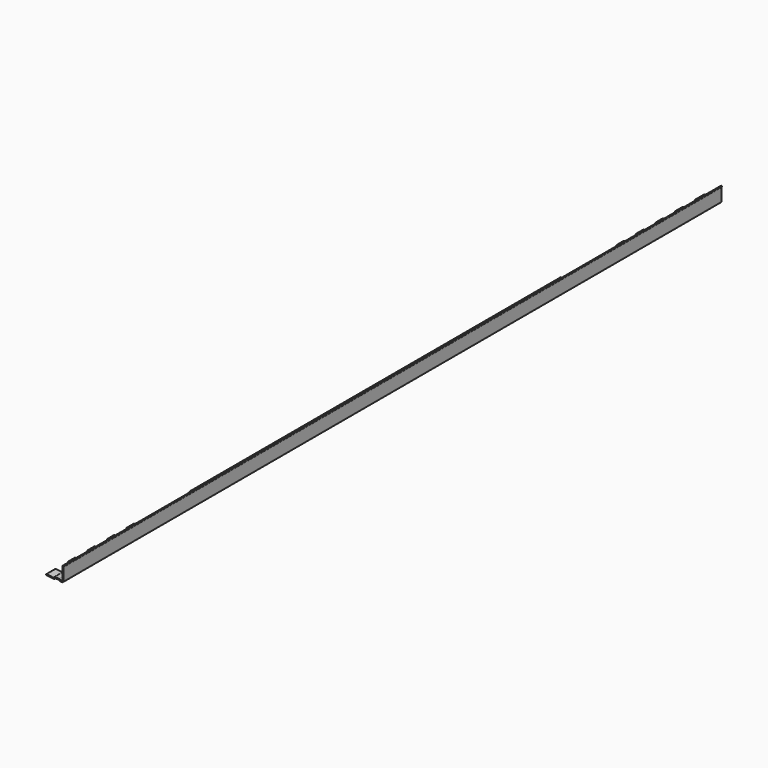
from build123d import *

# Parameters (mm, degrees)
F2_DEPTH  = 596.9
F3_R      = 0.762
F4_R      = 0.762
F5_R      = 2.286
F7_W      = 50.8
F7_H      = 101.6
F8_DEPTH  = 28.4490001
F9_W      = 50.8
F9_H      = 22.86
F10_DEPTH = 28.4490001
F11_R     = 3.175


with BuildPart() as f2:
    # F1 (on Front) → F2 (new body)
    with BuildSketch(Plane.XZ):
        with BuildLine():
            Line((-12.7, -1.3170858658), (-23.0175096034, 0))
            ThreePointArc((-23.0175096034, 0), (-23.8698661279, -0.6593757313), (-23.2104903966, -1.5117322559))
            Line((-23.2104903966, -1.5117322559), (-11.176, -3.048))
            Line((-11.176, -3.048), (-11.176, -1.524))
            Line((-11.176, -1.524), (-4.826, -1.524))
            Line((-4.826, -1.524), (-4.826, -3.048))
            Line((-4.826, -3.048), (1.524, -3.048))
            Line((1.524, -3.048), (1.524, 17.526))
            ThreePointArc((1.524, 17.526), (2.286, 18.288), (1.524, 19.05))
            ThreePointArc((1.524, 19.05), (0.4463692655, 18.6036307345), (0, 17.526))
            Line((0, 17.526), (0, -1.524))
            Line((0, -1.524), (-3.302, -1.524))
            Line((-3.302, -1.524), (-3.302, 0))
            Line((-3.302, 0), (-12.7, 0))
            Line((-12.7, 0), (-12.7, -1.3170858658))
        make_face()
    extrude(amount=F2_DEPTH)

    # F3
    f3_edges = [f2.edges().sort_by_distance(p)[0] for p in [
        (1.524, -298.45, 17.526),
    ]]
    fillet(f3_edges, radius=F3_R)

    # F4
    f4_edges = [f2.edges().sort_by_distance(p)[0] for p in [
        (0, -298.45, -1.524),
        (-3.302, -298.45, -1.524),
        (-12.7, -298.45, -1.317086),
        (-4.826, -298.45, -1.524),
        (-11.176, -298.45, -1.524),
    ]]
    fillet(f4_edges, radius=F4_R)

    # F5
    f5_edges = [f2.edges().sort_by_distance(p)[0] for p in [
        (-11.176, -298.45, -3.048),
        (-4.826, -298.45, -3.048),
        (-3.302, -298.45, 0),
        (-12.7, -298.45, 0),
        (1.524, -298.45, -3.048),
    ]]
    fillet(f5_edges, radius=F5_R)

    # F7 (on offset) → F8 (cut, through all)
    with BuildSketch(Plane.XY.offset(25.4)):
        with Locations((-26.924, -387.35)):
            Rectangle(F7_W, F7_H)
    extrude(amount=-F8_DEPTH, mode=Mode.SUBTRACT)

    # F9 (on offset) → F10 (cut, through all)
    with BuildSketch(Plane.XY.offset(25.4)):
        with Locations((-26.924, -462.28)):
            Rectangle(F9_W, F9_H)
        with Locations((-26.924, -497.84)):
            Rectangle(F9_W, F9_H)
        with Locations((-26.924, -533.4)):
            Rectangle(F9_W, F9_H)
        with Locations((-26.924, -568.96)):
            Rectangle(F9_W, F9_H)
    extrude(amount=-F10_DEPTH, mode=Mode.SUBTRACT)

    # F11 (call 1 of 10: OpenCascade refuses the feature's edges together)
    f11_edges = [f2.edges().sort_by_distance(p)[0] for p in [
        (-1.524, -336.55, -2.286),
    ]]
    fillet(f11_edges, radius=F11_R)

    # F11#2 (call 2 of 10)
    f11_2_edges = [f2.edges().sort_by_distance(p)[0] for p in [
        (-1.524, -438.15, -2.286),
    ]]
    fillet(f11_2_edges, radius=F11_R)

    # F11#3 (call 3 of 10)
    f11_3_edges = [f2.edges().sort_by_distance(p)[0] for p in [
        (-1.524, -450.85, -2.286),
    ]]
    fillet(f11_3_edges, radius=F11_R)

    # F11#4 (call 4 of 10)
    f11_4_edges = [f2.edges().sort_by_distance(p)[0] for p in [
        (-1.524, -473.71, -2.286),
    ]]
    fillet(f11_4_edges, radius=F11_R)

    # F11#5 (call 5 of 10)
    f11_5_edges = [f2.edges().sort_by_distance(p)[0] for p in [
        (-1.524, -509.27, -2.286),
    ]]
    fillet(f11_5_edges, radius=F11_R)

    # F11#6 (call 6 of 10)
    f11_6_edges = [f2.edges().sort_by_distance(p)[0] for p in [
        (-1.524, -544.83, -2.286),
    ]]
    fillet(f11_6_edges, radius=F11_R)

    # F11#7 (call 7 of 10)
    f11_7_edges = [f2.edges().sort_by_distance(p)[0] for p in [
        (-1.524, -580.39, -2.286),
    ]]
    fillet(f11_7_edges, radius=F11_R)

    # F11#8 (call 8 of 10)
    f11_8_edges = [f2.edges().sort_by_distance(p)[0] for p in [
        (-1.524, -486.41, -2.286),
    ]]
    fillet(f11_8_edges, radius=F11_R)

    # F11#9 (call 9 of 10)
    f11_9_edges = [f2.edges().sort_by_distance(p)[0] for p in [
        (-1.524, -521.97, -2.286),
    ]]
    fillet(f11_9_edges, radius=F11_R)

    # F11#10 (call 10 of 10)
    f11_10_edges = [f2.edges().sort_by_distance(p)[0] for p in [
        (-1.524, -557.53, -2.286),
    ]]
    fillet(f11_10_edges, radius=F11_R)

    # F12: F2 across plane


with BuildPart() as f2_1:
    add(f2.part)
    add(f2.part.mirror(Plane.XZ))


solid = f2_1.part
